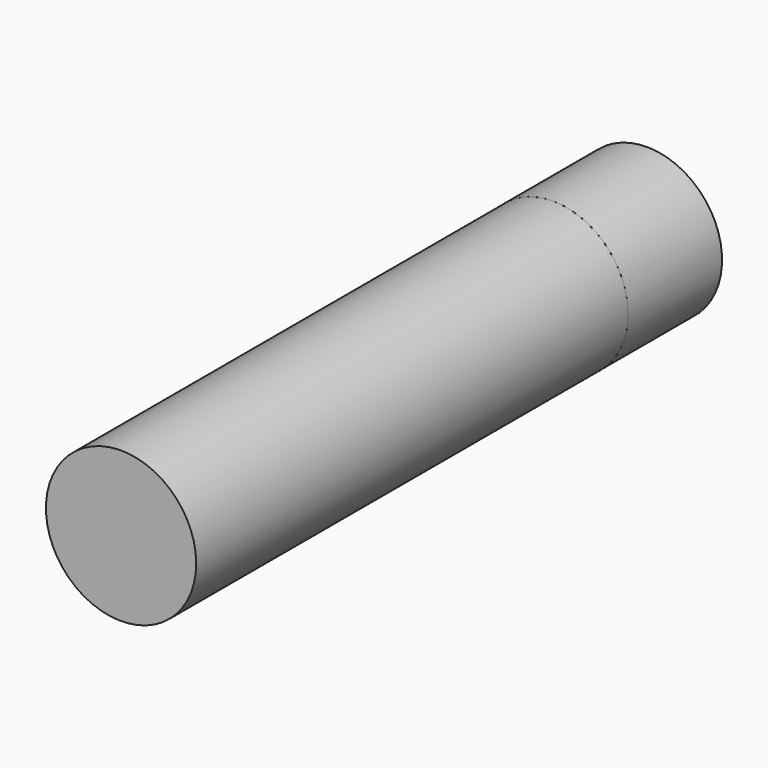
from build123d import *

# Parameters (mm, degrees)
F0_R     = 32
F1_DEPTH = 230
F2_R     = 32
F3_DEPTH = 50


with BuildPart() as f1:
    # F0 (on Front) → F1 (new body)
    with BuildSketch(Plane.XZ):
        Circle(F0_R)
    extrude(amount=-F1_DEPTH)


with BuildPart() as f3:
    # F2 (on face) → F3 (new body)
    with BuildSketch(Plane(origin=(0, 230, 0), x_dir=(-1, 0, 0), z_dir=(0, 1, 0))):
        Circle(F2_R)
        Circle(F2_R)
    extrude(amount=F3_DEPTH)


solid = Compound([f1.part, f3.part])
